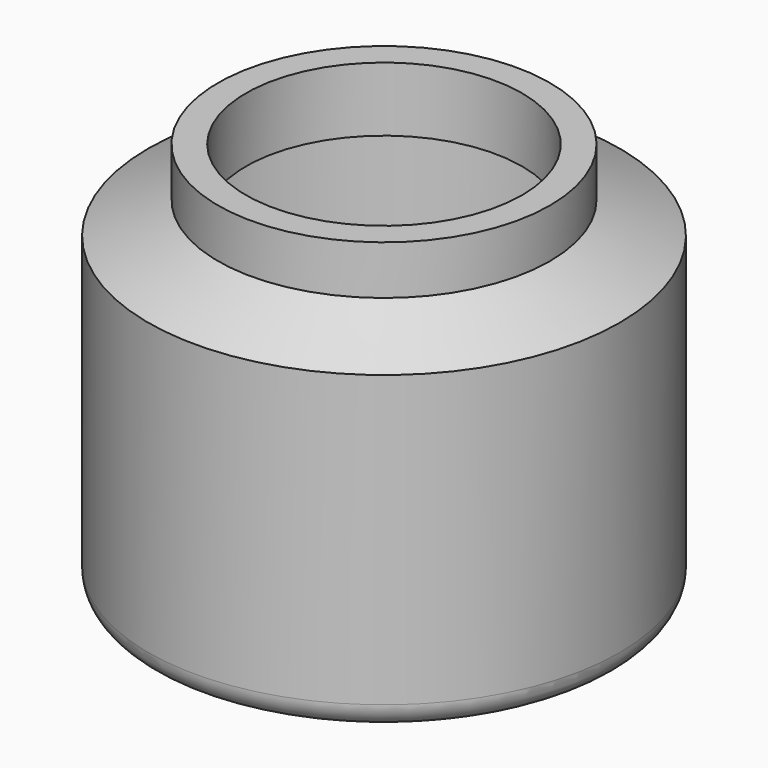
from build123d import *


with BuildPart() as f1:
    # F0 (on Front) → F1 (revolve)
    with BuildSketch(Plane.XZ):
        with BuildLine():
            Line((0, 7.99657), (0, 0))
            Line((0, 0), (33.241566, 0))
            Line((33.241566, 0), (47.056243, -12.807356))
            Line((47.056243, -12.807356), (53.94531, -12.807356))
            ThreePointArc((53.94531, -12.807356), (58.435438, -10.947484), (60.29531, -6.457356))
            Line((60.29531, -6.457356), (60.29531, 67.77826))
            Line((60.29531, 67.77826), (42.451352, 75.836815))
            Line((42.451352, 75.836815), (42.451352, 88.365056))
            Line((42.451352, 88.365056), (35.31374, 88.365056))
            Line((35.31374, 88.365056), (35.31374, 71.906224))
            Line((35.31374, 71.906224), (55.683121, 63.1762))
            Line((55.683121, 63.1762), (55.683121, -5.09432))
            Line((55.683121, -5.09432), (51.909014, -5.09432))
            ThreePointArc((51.909014, -5.09432), (49.588434, -4.655107), (47.58887, -3.398227))
            Line((47.58887, -3.398227), (35.31374, 7.99657))
            Line((35.31374, 7.99657), (0, 7.99657))
        make_face()
    revolve(axis=Axis((0, 0, 33.313517), (0, 0, 1)))


solid = f1.part
